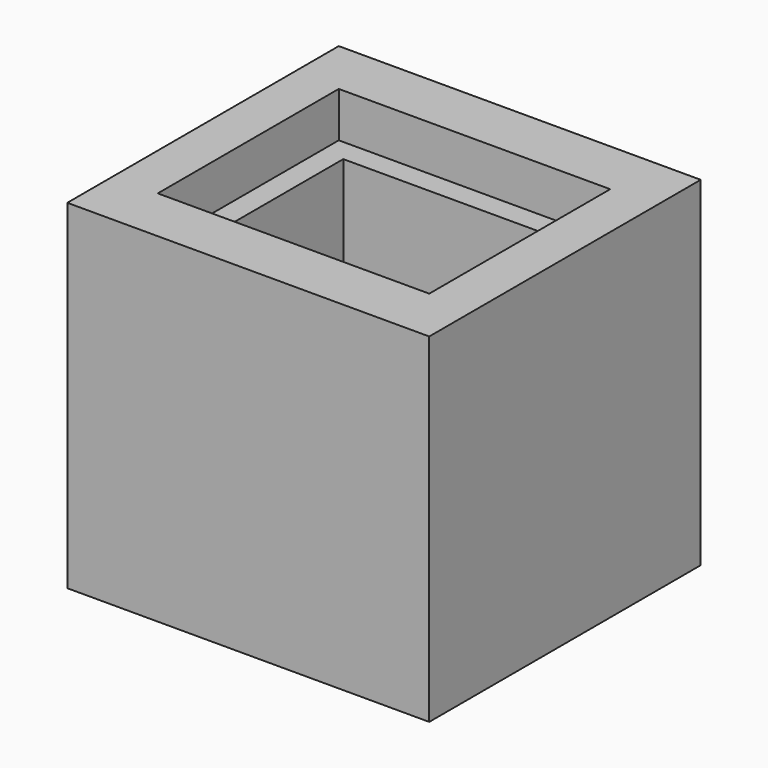
from build123d import *

# Parameters (mm, degrees)
F0_W     = 160
F0_H     = 150
F1_DEPTH = 150
F2_W     = 120
F2_H     = 100
F3_DEPTH = 20
F4_W     = 100
F4_H     = 80
F5_DEPTH = 110


with BuildPart() as f1:
    # F0 (on Front) → F1 (new body)
    with BuildSketch(Plane.XZ):
        Rectangle(F0_W, F0_H)
    extrude(amount=F1_DEPTH)

    # F2 (on face) → F3 (cut)
    with BuildSketch(Plane.XY.offset(75)):
        with Locations((0, -75)):
            Rectangle(F2_W, F2_H)
    extrude(amount=-F3_DEPTH, mode=Mode.SUBTRACT)

    # F4 (on face) → F5 (cut)
    with BuildSketch(Plane.XY.offset(55)):
        with Locations((0, -75)):
            Rectangle(F4_W, F4_H)
    extrude(amount=-F5_DEPTH, mode=Mode.SUBTRACT)


solid = f1.part
